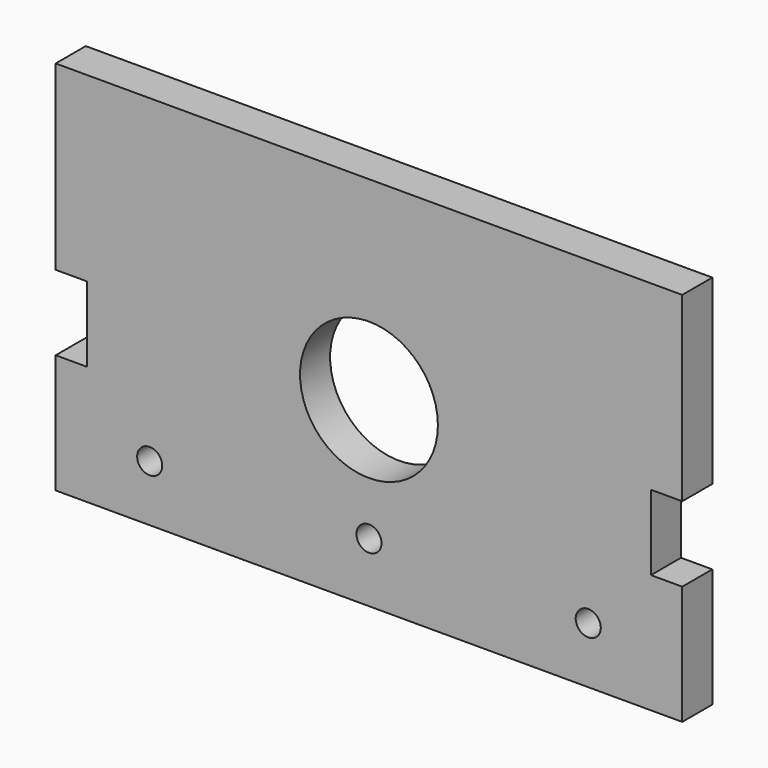
from build123d import *

# Parameters (mm, degrees)
F0_R     = 2
F0_R_2   = 11
F1_DEPTH = 6


with BuildPart() as f1:
    # F0 (on Front) → F1 (new body)
    with BuildSketch(Plane.XZ):
        Polygon((100, 60), (0, 60), (0, 31), (5, 31), (5, 19), (0, 19), (0, 0), (100, 0), (100, 19), (95, 19), (95, 31), (100, 31), align=None)
        with Locations((15, 9)):
            Circle(F0_R, mode=Mode.SUBTRACT)
        with Locations((50, 9.5)):
            Circle(F0_R, mode=Mode.SUBTRACT)
        with Locations((85, 9)):
            Circle(F0_R, mode=Mode.SUBTRACT)
        with Locations((50, 29)):
            Circle(F0_R_2, mode=Mode.SUBTRACT)
    extrude(amount=F1_DEPTH)


solid = f1.part
